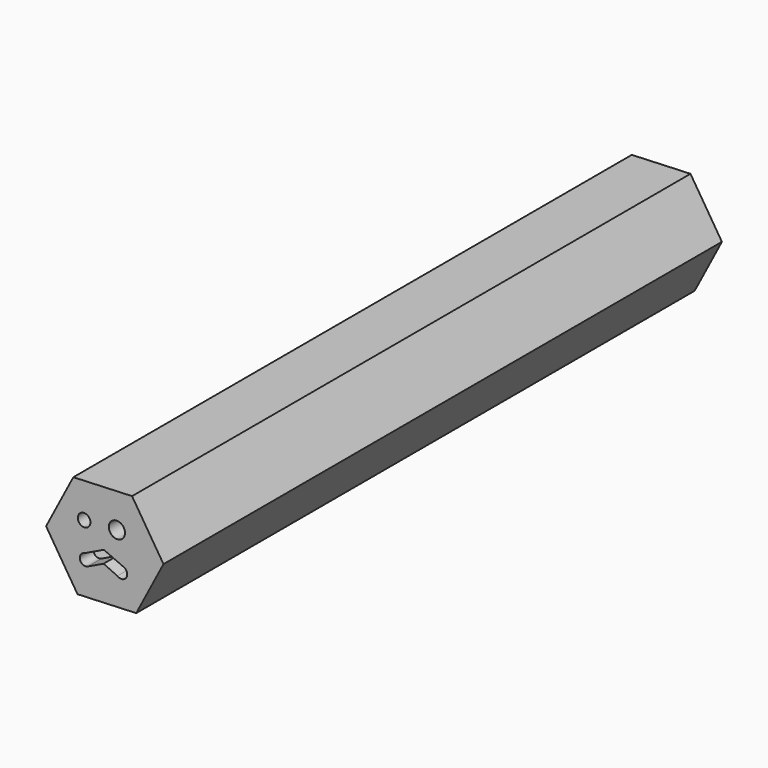
from build123d import *

# Parameters (mm, degrees)
F1_DEPTH = 31.75
F2_R     = 0.5886867957
F2_R_2   = 0.7557919615
F3_DEPTH = 1.5875


with BuildPart() as f1:
    # F0 (on Front) → F1 (new body, symmetric)
    with BuildSketch(Plane.XZ):
        Polygon((5.4726746476, 0.2241786608), (2.5421929086, 4.8515646018), (-2.930481739, 4.6273859411), (-5.4726746476, -0.2241786608), (-2.5421929086, -4.8515646018), (2.930481739, -4.6273859411), align=None)
        Polygon((-2.1458815411, 3.3884606556), (1.8615522369, 3.5526182559), (4.0074337781, 0.1641576003), (2.1458815411, -3.3884606556), (-1.8615522369, -3.5526182559), (-4.0074337781, -0.1641576003), align=None, mode=Mode.SUBTRACT)
    extrude(amount=F1_DEPTH, both=True)

    # F2 (on face) → F3 (join)
    with BuildSketch(Plane.XZ.offset(31.75)):
        Polygon((-2.5421929086, -4.8515646018), (2.930481739, -4.6273859411), (5.4726746476, 0.2241786608), (2.5421929086, 4.8515646018), (-2.930481739, 4.6273859411), (-5.4726746476, -0.2241786608), align=None)
        Polygon((-1.8615522369, -3.5526182559), (-4.0074337781, -0.1641576003), (-2.1458815411, 3.3884606556), (1.8615522369, 3.5526182559), (4.0074337781, 0.1641576003), (2.1458815411, -3.3884606556), align=None, mode=Mode.SUBTRACT)
        Polygon((-2.1458815411, 3.3884606556), (-4.0074337781, -0.1641576003), (-1.8615522369, -3.5526182559), (2.1458815411, -3.3884606556), (4.0074337781, 0.1641576003), (1.8615522369, 3.5526182559), align=None)
        with BuildLine():
            ThreePointArc((-1.6080282877, -2.2762045416), (-2.3121206431, -1.9400866098), (-1.90285574, -1.2758400079))
            Line((-1.90285574, -1.2758400079), (-0.0846300536, -0.4070492287))
            Line((-0.0846300536, -0.4070492287), (1.6315181704, -1.1626920101))
            ThreePointArc((1.6315181704, -1.1626920101), (1.7606026884, -1.201756272), (1.8765772228, -1.270594755))
            ThreePointArc((1.8765772228, -1.270594755), (1.9710769764, -2.063707268), (1.1761976946, -2.1419670217))
            Line((1.1761976946, -2.1419670217), (-0.1107579301, -1.5566768125))
            Line((-0.1107579301, -1.5566768125), (-1.5564763423, -2.2514307564))
            ThreePointArc((-1.5564763423, -2.2514307564), (-1.5819143346, -2.2645209548), (-1.6080282877, -2.2762045416))
        make_face(mode=Mode.SUBTRACT)
        with Locations((-1.9266997697, 1.430987264)):
            Circle(F2_R, mode=Mode.SUBTRACT)
        with Locations((1.1305541266, 1.6205844004)):
            Circle(F2_R_2, mode=Mode.SUBTRACT)
    extrude(amount=F3_DEPTH)


solid = f1.part
